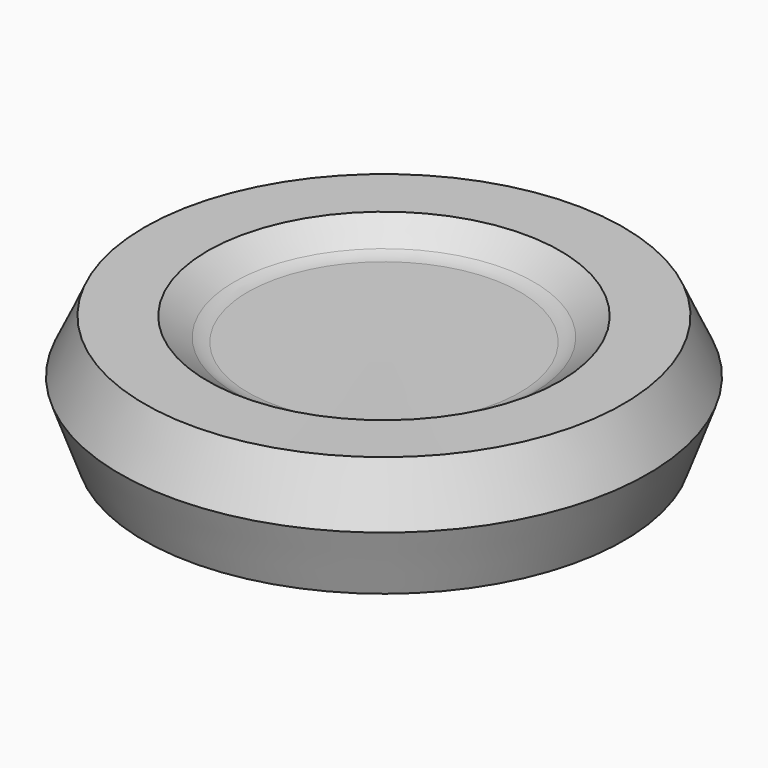
from build123d import *

# Parameters (mm, degrees)
F2_R     = 5
F5_DEPTH = 25


with BuildPart() as f1:
    # F0 (on Front) → F1 (revolve)
    with BuildSketch(Plane.XZ):
        Polygon((-29.923142, 20.133244), (-36.73585, 24.941483), (-49.877202, 25), (-55, 13.824025), (-50, 0), (0, 0), (0, 20), align=None)
    revolve(axis=Axis((0, 0, 10), (0, 0, -1)))

    # F2
    f2_edges = [f1.edges().sort_by_distance(p)[0] for p in [
        (29.923142, 0, 20.133244),
    ]]
    fillet(f2_edges, radius=F2_R)

    # F4 (on offset) → F5 (cut)
    with BuildSketch(Plane.XY.offset(25)):
        Polygon((9.998686, 59.837915), (5.139713, 68.578074), (-4.858973, 68.740159), (-9.998686, 60.162085), (-5.139713, 51.421926), (4.858973, 51.259841), align=None)
    extrude(amount=-F5_DEPTH, mode=Mode.SUBTRACT)


solid = f1.part
